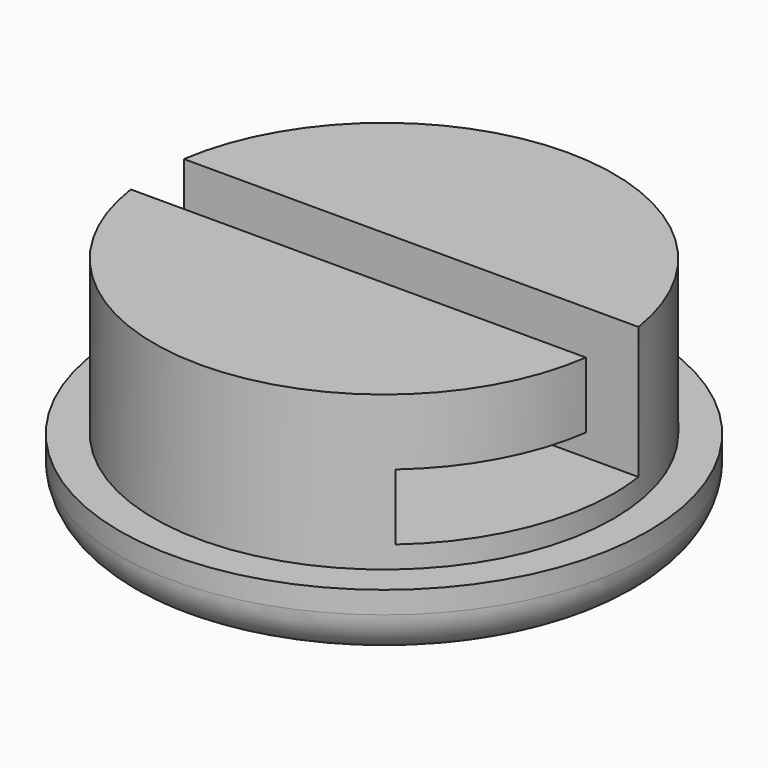
from build123d import *

# Parameters (mm, degrees)
F0_R      = 15.24
F1_DEPTH  = 12.7
F2_R      = 15.24
F2_R_2    = 13.2588
F3_DEPTH  = 8.89
F5_DEPTH  = 7.62
F6_W      = 4.4506016257
F6_H      = 3.81
F7_DEPTH  = 25.4
F8_W      = 3.7988447554
F8_H      = 3.81
F9_DEPTH  = 25.4
F10_R     = 2.54
F11_DEPTH = 5.08
F12_DEPTH = 5.08


with BuildPart() as f1:
    # F0 (on Top) → F1 (new body)
    with BuildSketch(Plane.XY):
        Circle(F0_R)
    extrude(amount=F1_DEPTH)

    # F2 (on face) → F3 (cut)
    with BuildSketch(Plane.XY.offset(12.7)):
        Circle(F2_R)
        Circle(F2_R_2, mode=Mode.SUBTRACT)
    extrude(amount=-F3_DEPTH, mode=Mode.SUBTRACT)

    # F4 (on face) → F5 (cut)
    with BuildSketch(Plane.XY.offset(12.7)):
        with BuildLine():
            Line((13.1291263807, -1.849815645), (13.2588, -1.849815645))
            Line((13.2588, -1.849815645), (13.2588, 0))
            ThreePointArc((13.2588, 0), (13.2263418657, -0.9271775946), (13.1291263807, -1.849815645))
        make_face()
        with BuildLine():
            Line((-13.2588, -1.849815645), (-13.1291263807, -1.849815645))
            ThreePointArc((-13.1291263807, -1.849815645), (-13.2263418657, -0.9271775946), (-13.2588, 0))
            Line((-13.2588, 0), (-13.2588, -1.849815645))
        make_face()
        with BuildLine():
            ThreePointArc((13.1131024069, 1.960184355), (13.2223254315, 0.9827958199), (13.2588, 0))
            Line((13.2588, 0), (13.2588, 1.960184355))
            Line((13.2588, 1.960184355), (13.1131024069, 1.960184355))
        make_face()
        with BuildLine():
            Line((-13.2588, 1.960184355), (-13.2588, 0))
            ThreePointArc((-13.2588, 0), (-13.2223254315, 0.9827958199), (-13.1131024069, 1.960184355))
            Line((-13.1131024069, 1.960184355), (-13.2588, 1.960184355))
        make_face()
        with BuildLine():
            Line((-13.2588, 0), (13.2588, 0))
            ThreePointArc((13.2588, 0), (13.2223254315, 0.9827958199), (13.1131024069, 1.960184355))
            Line((13.1131024069, 1.960184355), (-13.1131024069, 1.960184355))
            ThreePointArc((-13.1131024069, 1.960184355), (-13.2223254315, 0.9827958199), (-13.2588, 0))
        make_face()
        with BuildLine():
            Line((-13.1291263807, -1.849815645), (13.1291263807, -1.849815645))
            ThreePointArc((13.1291263807, -1.849815645), (13.2263418657, -0.9271775946), (13.2588, 0))
            Line((13.2588, 0), (-13.2588, 0))
            ThreePointArc((-13.2588, 0), (-13.2263418657, -0.9271775946), (-13.1291263807, -1.849815645))
        make_face()
    extrude(amount=-F5_DEPTH, mode=Mode.SUBTRACT)

    # F6 (on face) → F7 (cut)
    with BuildSketch(Plane(origin=(0, -1.849815645, 0), x_dir=(-1, 0, 0), z_dir=(0, 1, 0))):
        with Locations((-10.9038255678, 6.985)):
            Rectangle(F6_W, F6_H)
    extrude(amount=-F7_DEPTH, mode=Mode.SUBTRACT)

    # F8 (on face) → F9 (cut)
    with BuildSketch(Plane.XZ.offset(-1.960184355)):
        with Locations((-11.2136800292, 6.985)):
            Rectangle(F8_W, F8_H)
    extrude(amount=-F9_DEPTH, mode=Mode.SUBTRACT)

    # F10
    f10_edges = [f1.edges().sort_by_distance(p)[0] for p in [
        (-15.24, 0, 0),
    ]]
    fillet(f10_edges, radius=F10_R)

    # F11 (cut): a face of the model
    f11_faces = [f1.faces().sort_by_distance(p)[0] for p in [
        (-9.3142576516, 5.6981527388, 6.985),
    ]]
    extrude(f11_faces, amount=-F11_DEPTH, mode=Mode.SUBTRACT)

    # F12 (cut): a face of the model
    f12_faces = [f1.faces().sort_by_distance(p)[0] for p in [
        (8.6785247549, -5.9368681555, 6.985),
    ]]
    extrude(f12_faces, amount=-F12_DEPTH, mode=Mode.SUBTRACT)


solid = f1.part
